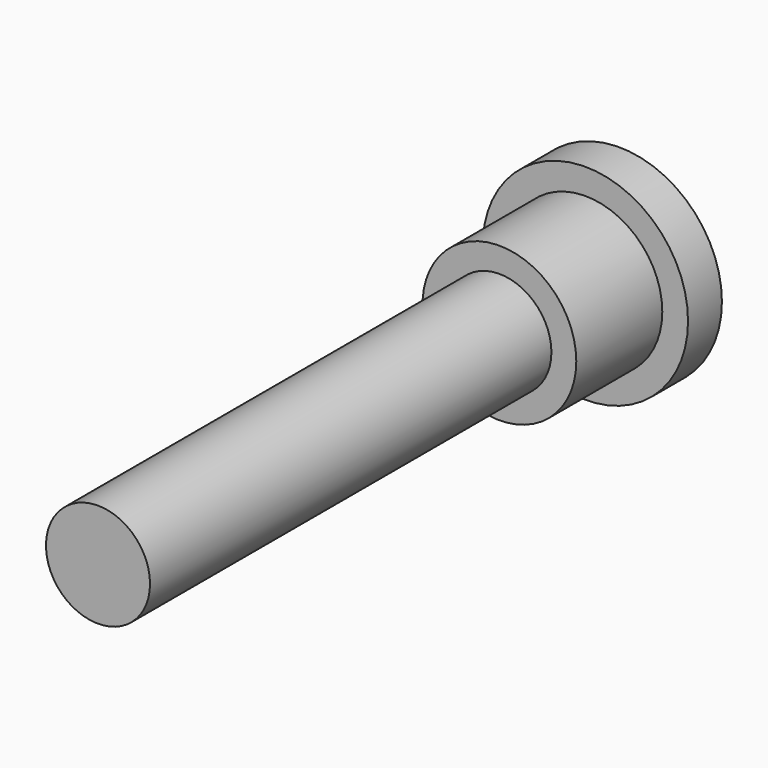
from build123d import *

# Parameters (mm, degrees)
F0_R     = 2.9972
F1_DEPTH = 5.842
F0_R_2   = 4.0005
F2_DEPTH = 1.651
F3_R     = 2.027538
F4_DEPTH = 25.4


with BuildPart() as f1:
    # F0 (on Front) → F1 (new body)
    with BuildSketch(Plane.XZ):
        Circle(F0_R)
    extrude(amount=F1_DEPTH)

    # F0 (on Front) → F2 (join)
    with BuildSketch(Plane.XZ):
        Circle(F0_R_2)
        Circle(F0_R, mode=Mode.SUBTRACT)
    extrude(amount=F2_DEPTH)

    # F3 (on Front) → F4 (join)
    with BuildSketch(Plane.XZ):
        Circle(F3_R)
    extrude(amount=F4_DEPTH)


solid = f1.part
